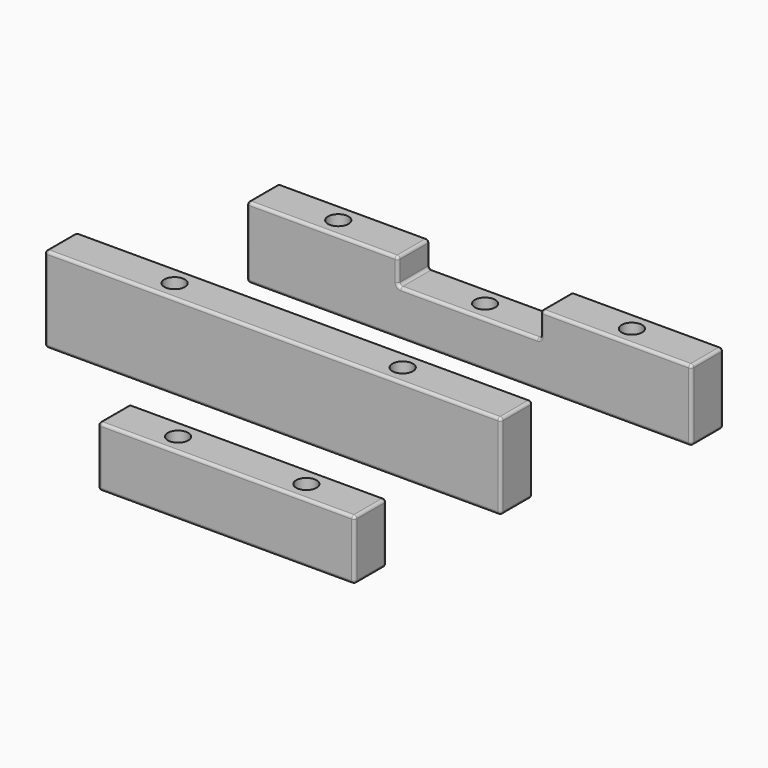
from build123d import *

# Parameters (mm, degrees)
F0_W      = 78
F0_H      = 7
F1_DEPTH  = 12.5
F2_W      = 25
F2_H      = 7
F3_DEPTH  = 4.5
F4_R      = 0.5
F5_R      = 1.8
F6_DEPTH  = 25
F7_R      = 1.8
F8_DEPTH  = 25
F9_R      = 1.8
F10_DEPTH = 25
F11_W     = 80
F11_H     = 7
F12_DEPTH = 15
F13_R     = 1.8
F14_DEPTH = 25
F15_R     = 0.5
F17_W     = 45
F17_H     = 7
F18_DEPTH = 10.5
F19_R     = 1.8
F20_DEPTH = 25
F21_R     = 0.5


with BuildPart() as f1:
    # F0 (on Top) → F1 (new body)
    with BuildSketch(Plane.XY):
        with Locations((11.2725320607, 20.5591957867)):
            Rectangle(F0_W, F0_H)
    extrude(amount=F1_DEPTH)

    # F2 (on face) → F3 (cut)
    with BuildSketch(Plane.XY.offset(12.5)):
        with Locations((11.2725320607, 20.5591957867)):
            Rectangle(F2_W, F2_H)
    extrude(amount=-F3_DEPTH, mode=Mode.SUBTRACT)

    # F4
    f4_edges = [f1.edges().sort_by_distance(p)[0] for p in [
        (50.272532, 20.559196, 12.5),
        (37.022532, 17.059196, 12.5),
        (23.772532, 20.559196, 12.5),
        (37.022532, 24.059196, 12.5),
        (-1.227468, 20.559196, 12.5),
        (-14.477468, 17.059196, 12.5),
        (-27.727468, 20.559196, 12.5),
        (-14.477468, 24.059196, 12.5),
        (-1.227468, 20.559196, 8),
        (11.272532, 17.059196, 8),
        (23.772532, 20.559196, 8),
        (11.272532, 24.059196, 8),
        (-1.227468, 24.059196, 10.25),
        (-1.227468, 17.059196, 10.25),
        (23.772532, 17.059196, 10.25),
        (23.772532, 24.059196, 10.25),
        (50.272532, 17.059196, 6.25),
        (50.272532, 24.059196, 6.25),
        (50.272532, 20.559196, 0),
        (-27.727468, 24.059196, 6.25),
        (-27.727468, 17.059196, 6.25),
        (-27.727468, 20.559196, 0),
        (11.272532, 17.059196, 0),
        (11.272532, 24.059196, 0),
    ]]
    fillet(f4_edges, radius=F4_R)

    # F5 (on face) → F6 (cut)
    with BuildSketch(Plane.XY.offset(12.5)):
        with Locations((37.0225320607, 20.5591957867)):
            Circle(F5_R)
    extrude(amount=-F6_DEPTH, mode=Mode.SUBTRACT)

    # F7 (on face) → F8 (cut)
    with BuildSketch(Plane.XY.offset(12.5)):
        with Locations((-14.4774679393, 20.5591957867)):
            Circle(F7_R)
    extrude(amount=-F8_DEPTH, mode=Mode.SUBTRACT)

    # F9 (on face) → F10 (cut)
    with BuildSketch(Plane.XY.offset(8)):
        with Locations((11.2725320607, 20.5591957867)):
            Circle(F9_R)
    extrude(amount=-F10_DEPTH, mode=Mode.SUBTRACT)


with BuildPart() as f12:
    # F11 (on Top) → F12 (new body)
    with BuildSketch(Plane.XY):
        with Locations((-43.5091736354, -11.7752306312)):
            Rectangle(F11_W, F11_H)
    extrude(amount=F12_DEPTH)

    # F13 (on face) → F14 (cut)
    with BuildSketch(Plane.XY.offset(15)):
        with Locations((-63.5091736354, -11.7752306312)):
            Circle(F13_R)
        with Locations((-23.5091736354, -11.7752306312)):
            Circle(F13_R)
    extrude(amount=-F14_DEPTH, mode=Mode.SUBTRACT)

    # F15
    f15_edges = [f12.edges().sort_by_distance(p)[0] for p in [
        (-83.509174, -15.275231, 7.5),
        (-3.509174, -15.275231, 7.5),
        (-43.509174, -15.275231, 0),
        (-43.509174, -15.275231, 15),
        (-83.509174, -8.275231, 7.5),
        (-83.509174, -11.775231, 0),
        (-83.509174, -11.775231, 15),
        (-3.509174, -8.275231, 7.5),
        (-43.509174, -8.275231, 0),
        (-43.509174, -8.275231, 15),
        (-3.509174, -11.775231, 0),
        (-3.509174, -11.775231, 15),
    ]]
    fillet(f15_edges, radius=F15_R)


with BuildPart() as f12_1:
    # F16: moved
    add(f12.part.moved(Location((46.2, 0, 0))))


with BuildPart() as f18:
    # F17 (on Top) → F18 (new body)
    with BuildSketch(Plane.XY):
        with Locations((17.3394502699, -40.2614694238)):
            Rectangle(F17_W, F17_H)
    extrude(amount=F18_DEPTH)

    # F19 (on face) → F20 (cut)
    with BuildSketch(Plane.XY.offset(10.5)):
        with Locations((6.0894502699, -40.2614694238)):
            Circle(F19_R)
        with Locations((28.5894502699, -40.2614694238)):
            Circle(F19_R)
    extrude(amount=-F20_DEPTH, mode=Mode.SUBTRACT)

    # F21
    f21_edges = [f18.edges().sort_by_distance(p)[0] for p in [
        (-5.16055, -43.761469, 5.25),
        (39.83945, -43.761469, 5.25),
        (17.33945, -43.761469, 0),
        (17.33945, -43.761469, 10.5),
        (39.83945, -36.761469, 5.25),
        (39.83945, -40.261469, 0),
        (39.83945, -40.261469, 10.5),
        (-5.16055, -36.761469, 5.25),
        (-5.16055, -40.261469, 0),
        (-5.16055, -40.261469, 10.5),
        (17.33945, -36.761469, 0),
        (17.33945, -36.761469, 10.5),
    ]]
    fillet(f21_edges, radius=F21_R)


solid = Compound([f1.part, f12_1.part, f18.part])
